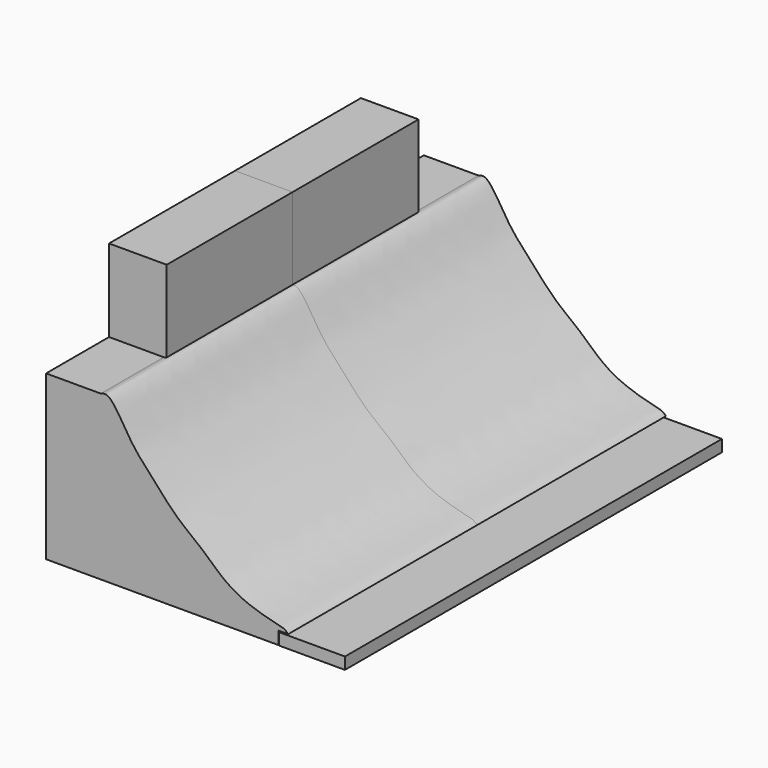
from build123d import *

# Parameters (mm, degrees)
F0_W     = 21.2485753
F0_H     = 152.0810052752
F1_DEPTH = 3.81
F3_DEPTH = 76.2
F4_DEPTH = 76.2
F5_W     = 18.6125934124
F5_H     = 26.5894271433
F6_DEPTH = 50.8
F7_DEPTH = 50.8
F8_W     = 14.3147837371
F8_H     = 9.378656745
F8_W_2   = 14.0679730102
F8_H_2   = 9.6254572272
F8_W_3   = 12.587139383
F8_H_3   = 9.8722651601
F8_W_4   = 17.029652372
F8_H_4   = 8.6382329464
F9_DEPTH = 58.42


with BuildPart() as f1:
    # F0 (on Top) → F1 (new body)
    with BuildSketch(Plane.XY):
        with Locations((10.62428765, -0.267278403)):
            Rectangle(F0_W, F0_H)
    extrude(amount=F1_DEPTH)

    # F8 (on Right) → F9 (cut)
    with BuildSketch(Plane.YZ):
        with Locations((-12.2708184645, 67.8704231977)):
            Rectangle(F8_W, F8_H)
        with Locations((14.0140862204, 67.7470229566)):
            Rectangle(F8_W_2, F8_H_2)
        with Locations((-31.6451368853, 68.610843271)):
            Rectangle(F8_W_3, F8_H_3)
        with Locations((36.2266814336, 67.9938271642)):
            Rectangle(F8_W_4, F8_H_4)
    extrude(amount=F9_DEPTH, mode=Mode.SUBTRACT)


with BuildPart() as f3:
    # F2 (on Front) → F3 (new body)
    with BuildSketch(Plane.XZ):
        with BuildLine():
            Line((-57.6507113874, 52.8162680566), (-75.2964168787, 52.8162680566))
            Line((-75.2964168787, 52.8162680566), (-75.2964168787, 0))
            Line((-75.2964168787, 0), (-0.3163424553, 0))
            Line((-0.3163424553, 0), (-0.3163424553, 4.1380482726))
            Line((-0.3163424553, 4.1380482726), (0, 4.1380482726))
            Line((0, 4.1380482726), (2.8498747852, 4.1380482726))
            add(Edge.make_bspline(
                [(-57.6507113874, 52.8162680566), (-56.8602710351, 53.0909142445), (-54.4734343004, 53.9754583667), (-47.8569322788, 41.5681647897), (-42.6244117505, 36.3349742464), (-33.1344303149, 25.0647868759), (-24.9495881789, 19.8402240782), (-15.0670263369, 9.131632398), (0.2232942838, 5.5783015486), (1.763578778, 5.2483250845), (2.8498747852, 4.1380482726)],
                knots=[0, 0, 0, 0, 0.0638100825, 0.2087782801, 0.3302444576, 0.4830091729, 0.6125782664, 0.7704626352, 0.9263194399, 1, 1, 1, 1], degree=3))
        make_face()
    extrude(amount=F3_DEPTH)


with BuildPart() as f4:
    # F4 (new): a face of the model
    f4_faces = [f3.part.faces().sort_by_distance(p)[0] for p in [
        (-49.6360039473, 0, 20.6655846492),
    ]]
    extrude(f4_faces, amount=F4_DEPTH)


with BuildPart() as f6:
    # F5 (on Front) → F6 (new body)
    with BuildSketch(Plane.XZ):
        with Locations((-65.9901201725, 66.1109816283)):
            Rectangle(F5_W, F5_H)
    extrude(amount=F6_DEPTH)


with BuildPart() as f7:
    # F7 (new): a face of the model
    f7_faces = [f6.part.faces().sort_by_distance(p)[0] for p in [
        (-65.9901201725, 0, 66.1109816283),
    ]]
    extrude(f7_faces, amount=F7_DEPTH)


solid = Compound([f1.part, f3.part, f4.part, f6.part, f7.part])
